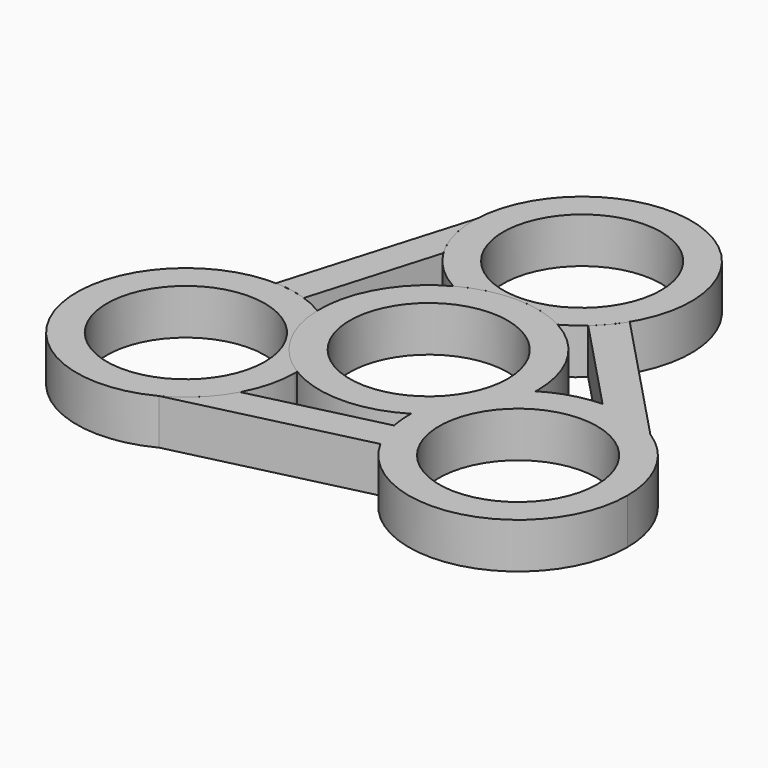
from build123d import *

# Parameters (mm, degrees)
F1_R     = 11.0236
F2_DEPTH = 6.35
F0_R     = 11.0236


with BuildPart() as f2:
    # F1 (on Top) → F2 (new body)
    with BuildSketch(Plane.XY):
        with BuildLine():
            Line((31.3536591279, -0.5200026799), (13.0013645891, 18.8203662076))
            ThreePointArc((13.0013645891, 18.8203662076), (11.648148434, 16.9441772423), (10.0265557348, 15.2944148008))
            Line((10.0265557348, 15.2944148008), (22.7851039854, 1.8489554815))
            ThreePointArc((22.7851039854, 1.8489554815), (27.2459568337, 1.3031516728), (31.3536591279, -0.5200026799))
        make_face()
        with BuildLine():
            ThreePointArc((-9.7913095753, -20.65695662), (-12.4944159632, -24.2472666048), (-16.1271650948, -26.8930639664))
            Line((-16.1271650948, -26.8930639664), (9.7982329498, -20.6696951218))
            ThreePointArc((9.7982329498, -20.6696951218), (8.850013721, -18.5596810721), (8.2320738861, -16.3304593791))
            Line((8.2320738861, -16.3304593791), (-9.7913095753, -20.65695662))
        make_face()
        with BuildLine():
            ThreePointArc((-7.949711788, -13.0022952777), (-9.9866585463, -5.7658), (-15.235173912, -0.3835047223))
            ThreePointArc((-15.235173912, -0.3835047223), (-13.1982271537, -7.62), (-7.949711788, -13.0022952777))
        make_face()
        with BuildLine():
            ThreePointArc((7.285462124, 13.3858), (0, 15.24), (-7.285462124, 13.3858))
            ThreePointArc((-7.285462124, 13.3858), (0, 11.5316), (7.285462124, 13.3858))
        make_face()
        with BuildLine():
            ThreePointArc((38.4248857, -13.3858), (36.5405906054, -6.0453131988), (31.3536591279, -0.5200026799))
            ThreePointArc((31.3536591279, -0.5200026799), (27.2459568337, 1.3031516728), (22.7851039854, 1.8489554815))
            ThreePointArc((22.7851039854, 1.8489554815), (18.863487769, 1.2286832246), (15.235173912, -0.3835047223))
            ThreePointArc((15.235173912, -0.3835047223), (13.1982271537, -7.62), (7.949711788, -13.0022952777))
            ThreePointArc((7.949711788, -13.0022952777), (7.9994390612, -14.6741362848), (8.2320738861, -16.3304593791))
            ThreePointArc((8.2320738861, -16.3304593791), (8.850013721, -18.5596810721), (9.7982329498, -20.6696951218))
            ThreePointArc((9.7982329498, -20.6696951218), (26.9428779889, -28.1551972103), (38.4248857, -13.3858))
        make_face()
        with Locations((23.1848857, -13.3858)):
            Circle(F1_R, mode=Mode.SUBTRACT)
        with BuildLine():
            ThreePointArc((7.949711788, -13.0022952777), (13.1982271537, -7.62), (15.235173912, -0.3835047223))
            ThreePointArc((15.235173912, -0.3835047223), (9.9866585463, -5.7658), (7.949711788, -13.0022952777))
        make_face()
        with BuildLine():
            ThreePointArc((7.285462124, 13.3858), (0, 11.5316), (-7.285462124, 13.3858))
            ThreePointArc((-7.285462124, 13.3858), (-13.1982271537, 7.62), (-15.235173912, -0.3835047223))
            ThreePointArc((-15.235173912, -0.3835047223), (-9.9866585463, -5.7658), (-7.949711788, -13.0022952777))
            ThreePointArc((-7.949711788, -13.0022952777), (0, -15.24), (7.949711788, -13.0022952777))
            ThreePointArc((7.949711788, -13.0022952777), (9.9866585463, -5.7658), (15.235173912, -0.3835047223))
            ThreePointArc((15.235173912, -0.3835047223), (15.2387934302, -0.1917675436), (15.24, 0))
            ThreePointArc((15.24, 0), (13.1012984618, 7.7854722795), (7.285462124, 13.3858))
        make_face()
        Circle(F1_R, mode=Mode.SUBTRACT)
    extrude(amount=F2_DEPTH)


with BuildPart() as f2b:
    # F1 (on Top) → F2, piece 2 (new body)
    with BuildSketch(Plane.XY):
        with BuildLine():
            ThreePointArc((-12.9937944102, 18.8080011385), (-14.7515408705, 22.944114932), (-15.2264940332, 27.4130666463))
            Line((-15.2264940332, 27.4130666463), (-22.7995975389, 1.8493289142))
            ThreePointArc((-22.7995975389, 1.8493289142), (-20.4981621551, 1.6155038298), (-18.2586296209, 1.0360445784))
            Line((-18.2586296209, 1.0360445784), (-12.9937944102, 18.8080011385))
        make_face()
    extrude(amount=F2_DEPTH)


with BuildPart() as f2c:
    # F0 (on Top) → F2, piece 3 (new body)
    with BuildSketch(Plane.XY):
        with BuildLine():
            ThreePointArc((-7.949711788, -13.0022952777), (-13.1982271537, -7.62), (-15.235173912, -0.3835047223))
            ThreePointArc((-15.235173912, -0.3835047223), (-36.4779517054, -20.8391211507), (-7.9448857, -13.3858))
            ThreePointArc((-7.9448857, -13.3858), (-7.9460922697, -13.1940324564), (-7.949711788, -13.0022952777))
        make_face()
        with Locations((-23.1848857, -13.3858)):
            Circle(F0_R, mode=Mode.SUBTRACT)
    extrude(amount=F2_DEPTH)


with BuildPart() as f2d:
    # F0 (on Top) → F2, piece 4 (new body)
    with BuildSketch(Plane.XY):
        with BuildLine():
            ThreePointArc((-7.285462124, 13.3858), (0, 15.24), (7.285462124, 13.3858))
            ThreePointArc((7.285462124, 13.3858), (13.1012984618, 18.9861277205), (15.24, 26.7716))
            ThreePointArc((15.24, 26.7716), (-7.7854722795, 39.8728984618), (-7.285462124, 13.3858))
        make_face()
        with Locations((0, 26.7716)):
            Circle(F0_R, mode=Mode.SUBTRACT)
    extrude(amount=F2_DEPTH)


solid = Compound([f2.part, f2b.part, f2c.part, f2d.part])
